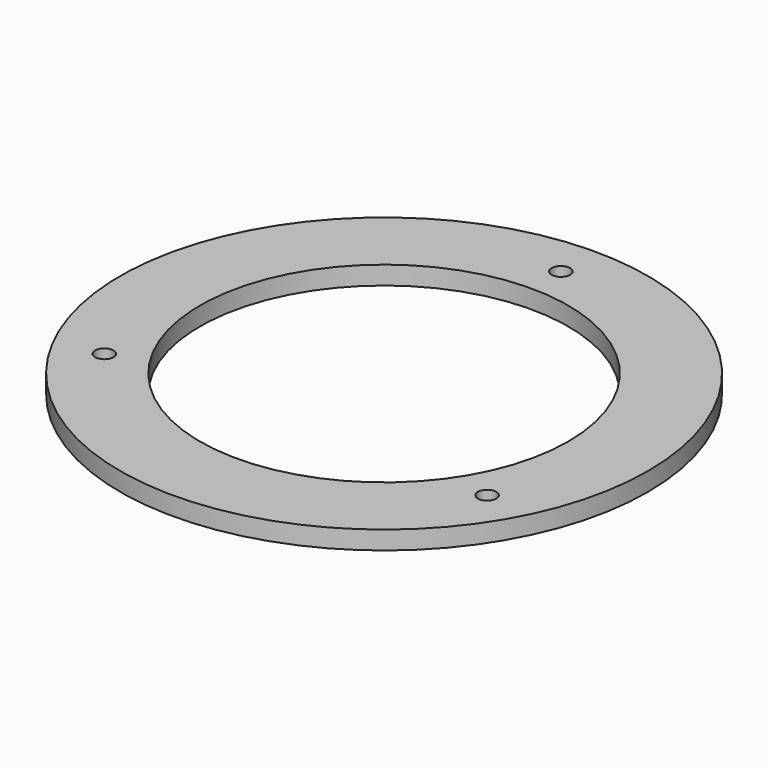
from build123d import *

# Parameters (mm, degrees)
SKETCH006_R   = 43
SKETCH006_R_2 = 1.5
SKETCH006_R_3 = 30
PAD_DEPTH     = 3


with BuildPart() as part:
    # Sketch006 → Pad (new body)
    with BuildSketch(Plane.XY.offset(22)):
        Circle(SKETCH006_R)
        with Locations((0, 36)):
            Circle(SKETCH006_R_2, mode=Mode.SUBTRACT)
        with Locations((31.176915, -18)):
            Circle(SKETCH006_R_2, mode=Mode.SUBTRACT)
        with Locations((-31.176915, -18)):
            Circle(SKETCH006_R_2, mode=Mode.SUBTRACT)
        Circle(SKETCH006_R_3, mode=Mode.SUBTRACT)
    extrude(amount=PAD_DEPTH)


solid = part.part
